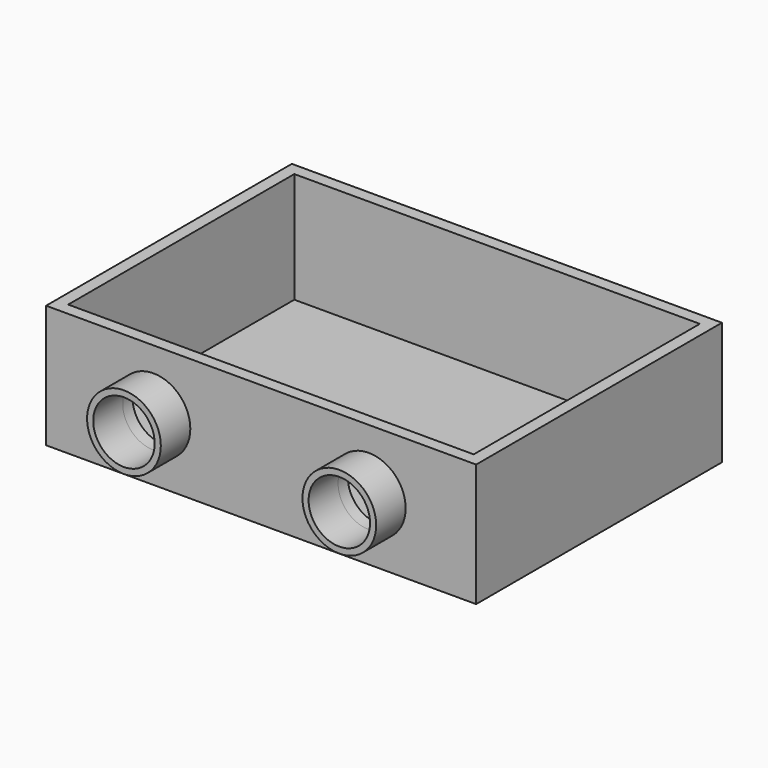
from build123d import *

# Parameters (mm, degrees)
F0_W     = 35
F0_H     = 25
F1_DEPTH = 10
F3_T     = -1
F2_R     = 3
F2_R_2   = 2.5
F4_DEPTH = 3
F5_DEPTH = 1


with BuildPart() as f1:
    # F0 (on Top) → F1 (new body)
    with BuildSketch(Plane.XY):
        with Locations((-20.4494718197, 12.5)):
            Rectangle(F0_W, F0_H)
    extrude(amount=F1_DEPTH)

    # F3
    f3_openings = [f1.faces().sort_by_distance(p)[0] for p in [
        (-20.449472, 12.5, 10),
    ]]
    offset(amount=F3_T, openings=f3_openings)

    # F2 (on face) → F4 (join)
    with BuildSketch(Plane.XZ):
        with Locations((-29.2118718197, 5)):
            Circle(F2_R)
        with Locations((-29.2118718197, 5)):
            Circle(F2_R_2, mode=Mode.SUBTRACT)
        with Locations((-11.6870718197, 5)):
            Circle(F2_R)
        with Locations((-11.6870718197, 5)):
            Circle(F2_R_2, mode=Mode.SUBTRACT)
    extrude(amount=F4_DEPTH)

    # F5 (cut): faces of the model
    f5_faces = [f1.faces().sort_by_distance(p)[0] for p in [
        (-29.2118718197, 0, 5),
        (-11.6870718197, 0, 5),
    ]]
    extrude(f5_faces, amount=-F5_DEPTH, mode=Mode.SUBTRACT)


solid = f1.part
